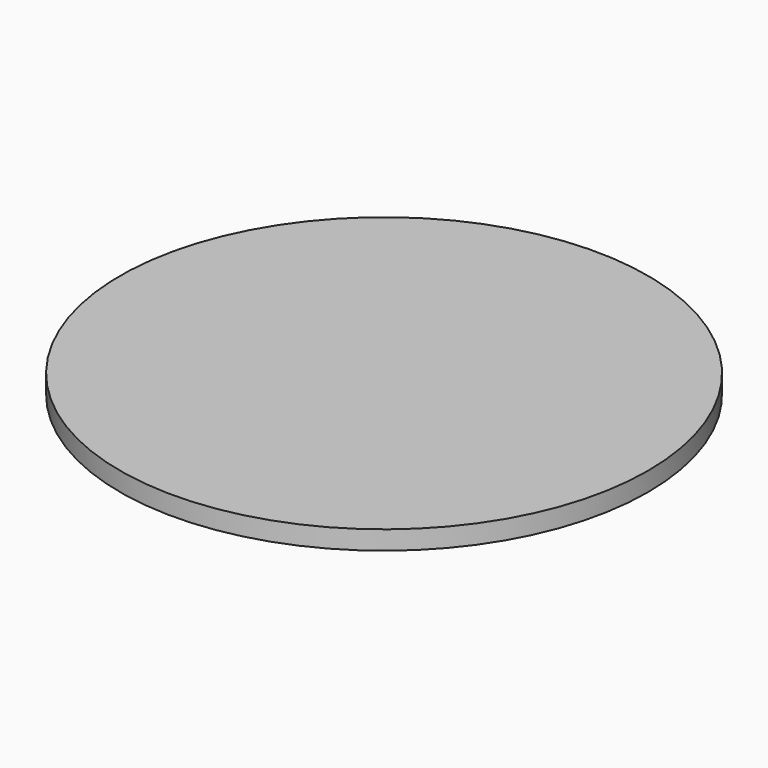
from build123d import *

# Parameters (mm, degrees)
SKETCH_R  = 7
PAD_DEPTH = 0.5


with BuildPart() as part:
    # Sketch → Pad (new body)
    with BuildSketch(Plane.XY):
        Circle(SKETCH_R)
    extrude(amount=PAD_DEPTH)


solid = part.part
